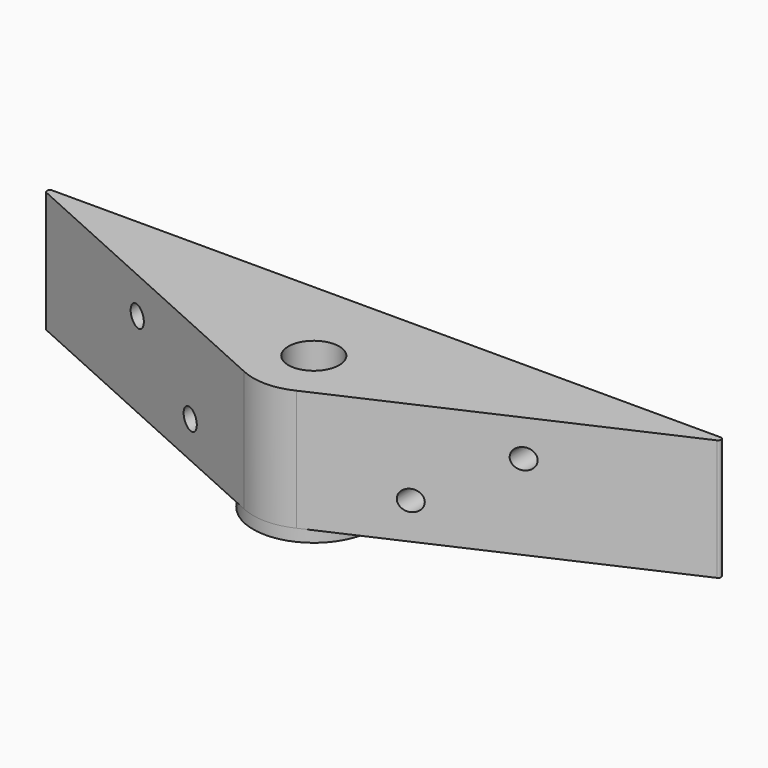
from build123d import *

# Parameters (mm, degrees)
F0_R     = 4.2
F1_DEPTH = 20
F2_R     = 10
F2_R_2   = 4.2
F3_DEPTH = 2
F4_R     = 1.7
F5_DEPTH = 25


with BuildPart() as f1:
    # F0 (on Top) → F1 (new body)
    with BuildSketch(Plane.XY):
        with BuildLine():
            Line((-55.383945, -0.955682), (-4.349251, -24.004666))
            ThreePointArc((-4.349251, -24.004666), (0, -25), (4.349251, -24.004666))
            Line((4.349251, -24.004666), (55.383945, -0.955682))
            ThreePointArc((55.383945, -0.955682), (55.666938, -0.394741), (55.178144, 0))
            Line((55.178144, 0), (-55.178144, 0))
            ThreePointArc((-55.178144, 0), (-55.666938, -0.394741), (-55.383945, -0.955682))
        make_face()
        with Locations((0, -15)):
            Circle(F0_R, mode=Mode.SUBTRACT)
    extrude(amount=F1_DEPTH)

    # F2 (on face) → F3 (join)
    with BuildSketch(Plane(origin=(0, 0, 0), x_dir=(1, 0, 0), z_dir=(0, 0, -1))):
        with Locations((0, 15)):
            Circle(F2_R)
        with Locations((0, 15)):
            Circle(F2_R_2, mode=Mode.SUBTRACT)
    extrude(amount=F3_DEPTH)

    # F4 (on face) → F5 (cut)
    with BuildSketch(Plane(origin=(0, 0, 0), x_dir=(-1, 0, 0), z_dir=(0, 1, 0))):
        with Locations((-31.914174, 14)):
            Circle(F4_R)
        with Locations((-18.214174, 6)):
            Circle(F4_R)
        with Locations((18.214174, 6)):
            Circle(F4_R)
        with Locations((31.914174, 14)):
            Circle(F4_R)
    extrude(amount=-F5_DEPTH, mode=Mode.SUBTRACT)


solid = f1.part
